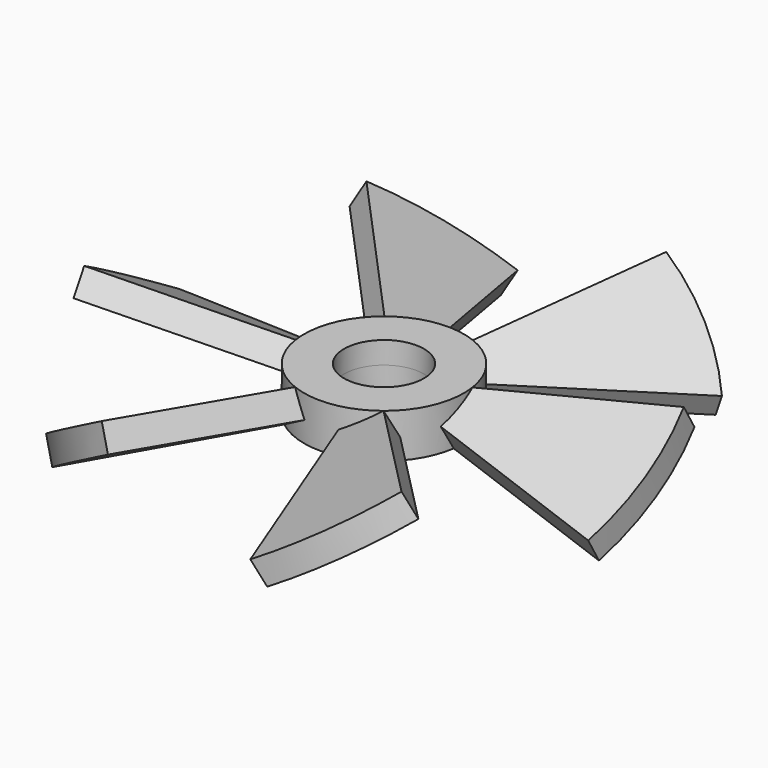
from build123d import *

# Parameters (mm, degrees)
F5_DEPTH      = 5
F3_R          = 30
F6_DEPTH      = 12.5
F7_COUNT      = 6
F8_R          = 30
F8_R_2        = 15
F9_DEPTH      = 8.3
F9_DEPTH_BACK = 8.3


with BuildPart() as f5:
    # F2 (on line) → F5 (new body, symmetric)
    with BuildSketch(Plane(origin=(0, 0, 0), x_dir=(1, 0, 0), z_dir=(0, 0.5, -0.8660254038))):
        with BuildLine():
            Line((28.9777747887, -7.7645713531), (96.5925826289, -25.8819045103))
            ThreePointArc((96.5925826289, -25.8819045103), (100, 0), (96.5925826289, 25.8819045103))
            Line((96.5925826289, 25.8819045103), (28.9777747887, 7.7645713531))
            Line((28.9777747887, 7.7645713531), (0, 0))
            Line((0, 0), (28.9777747887, -7.7645713531))
        make_face()
    extrude(amount=F5_DEPTH, both=True)

    # F3 (on Top) → F6 (cut, symmetric)
    with BuildSketch(Plane.XY):
        Circle(F3_R)
    extrude(amount=F6_DEPTH, both=True, mode=Mode.SUBTRACT)


with BuildPart() as f7_1:
    # F7: instance of F5
    add(f5.part.rotate(Axis((0, 0, 1.348067075), (0, 0, 1)), 1 * 360 / F7_COUNT))


with BuildPart() as f7_2:
    # F7: instance of F5
    add(f5.part.rotate(Axis((0, 0, 1.348067075), (0, 0, 1)), 2 * 360 / F7_COUNT))


with BuildPart() as f7_3:
    # F7: instance of F5
    add(f5.part.rotate(Axis((0, 0, 1.348067075), (0, 0, 1)), 3 * 360 / F7_COUNT))


with BuildPart() as f7_4:
    # F7: instance of F5
    add(f5.part.rotate(Axis((0, 0, 1.348067075), (0, 0, 1)), 4 * 360 / F7_COUNT))


with BuildPart() as f7_5:
    # F7: instance of F5
    add(f5.part.rotate(Axis((0, 0, 1.348067075), (0, 0, 1)), 5 * 360 / F7_COUNT))


with BuildPart() as f5_1:
    add(f5.part)

    add(f7_1.part)  # F9 merges F7_1

    add(f7_2.part)  # F9 merges F7_2

    add(f7_3.part)  # F9 merges F7_3

    add(f7_4.part)  # F9 merges F7_4

    add(f7_5.part)  # F9 merges F7_5
    # F8 (on Top) → F9 (join, two sides)
    with BuildSketch(Plane.XY) as f9_sk:
        Circle(F8_R)
        Circle(F8_R_2, mode=Mode.SUBTRACT)
    extrude(amount=F9_DEPTH)
    extrude(f9_sk.sketch, amount=-F9_DEPTH_BACK)


solid = f5_1.part
